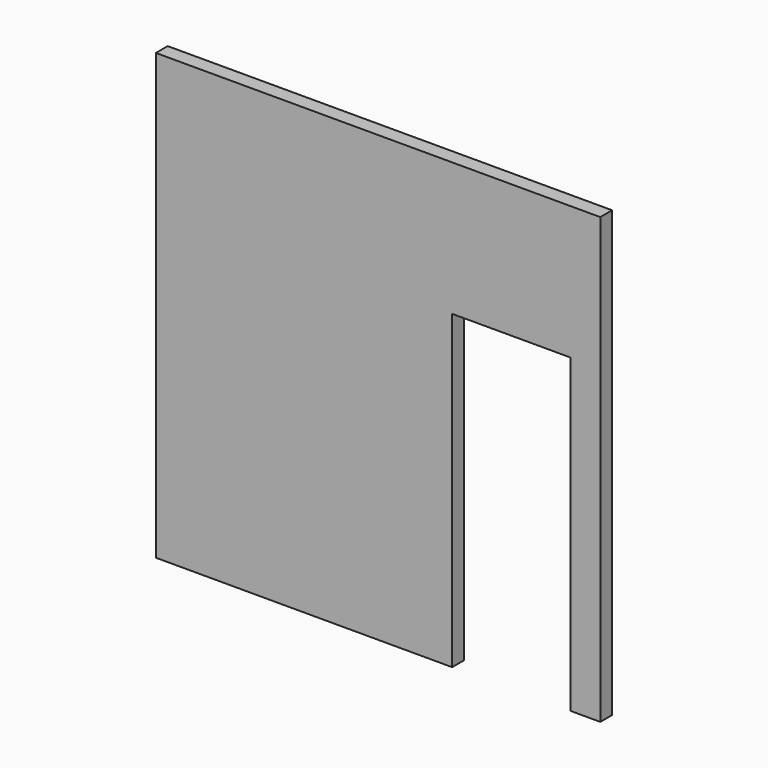
from build123d import *

# Parameters (mm, degrees)
F0_W     = 3000
F0_H     = 3000
F1_DEPTH = 50
F2_W     = 800
F2_H     = 2100
F3_DEPTH = 100.001


with BuildPart() as f1:
    # F0 (on Front) → F1 (new body, symmetric)
    with BuildSketch(Plane.XZ):
        with Locations((0, 1500)):
            Rectangle(F0_W, F0_H)
    extrude(amount=F1_DEPTH, both=True)

    # F2 (on face) → F3 (cut, through all)
    with BuildSketch(Plane.XZ.offset(50)):
        with Locations((900, 1050)):
            Rectangle(F2_W, F2_H)
    extrude(amount=-F3_DEPTH, mode=Mode.SUBTRACT)


solid = f1.part
